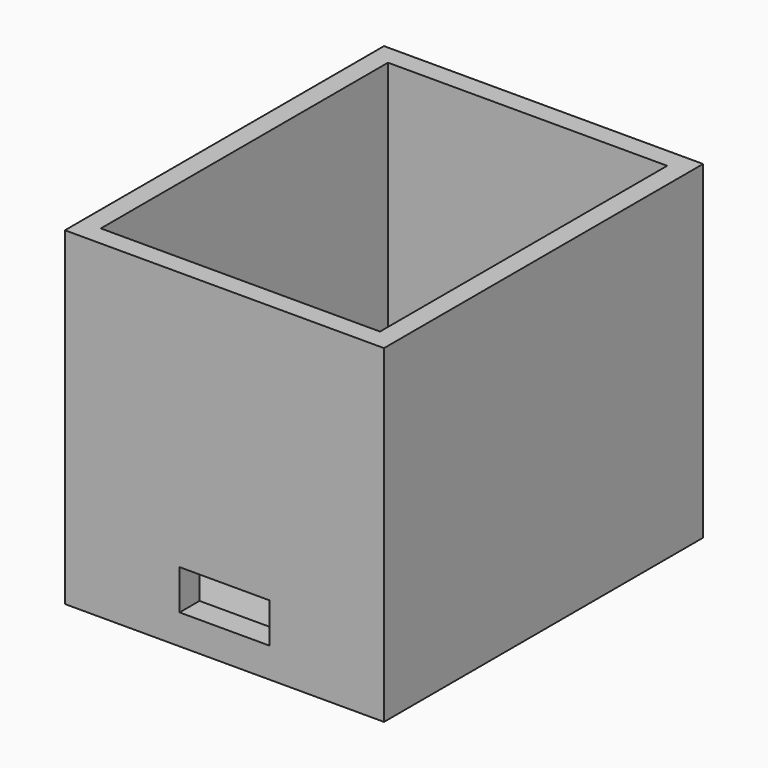
from build123d import *

# Parameters (mm, degrees)
SKETCH_W        = 32
SKETCH_H        = 40
PAD_DEPTH       = 7
SKETCH001_W     = 32
SKETCH001_H     = 40
SKETCH001_W_2   = 28
SKETCH001_H_2   = 36
PAD001_DEPTH    = 26
POCKET_DEPTH    = 5
SKETCH003_W     = 9
SKETCH003_H     = 4
POCKET001_DEPTH = 5


with BuildPart() as part:
    # Sketch → Pad (new body)
    with BuildSketch(Plane.XY):
        with Locations((16, 20)):
            Rectangle(SKETCH_W, SKETCH_H)
    extrude(amount=PAD_DEPTH)

    # Sketch001 → Pad001 (new body)
    with BuildSketch(Plane.XY.offset(7)):
        with Locations((16, 20)):
            Rectangle(SKETCH001_W, SKETCH001_H)
        with Locations((16, 20)):
            Rectangle(SKETCH001_W_2, SKETCH001_H_2, mode=Mode.SUBTRACT)
    extrude(amount=PAD001_DEPTH)

    # Sketch002 → Pocket (cut)
    with BuildSketch(Plane.XY.offset(7)):
        Polygon((3.5, 37.5), (28.5, 37.5), (28.5, 2.5), (16, 2.5), (3.5, 2.5), align=None)
    extrude(amount=-POCKET_DEPTH, mode=Mode.SUBTRACT)

    # Sketch003 → Pocket001 (cut)
    with BuildSketch(Plane.XZ):
        with Locations((16, 5)):
            Rectangle(SKETCH003_W, SKETCH003_H)
    extrude(amount=-POCKET001_DEPTH, mode=Mode.SUBTRACT)


solid = part.part
